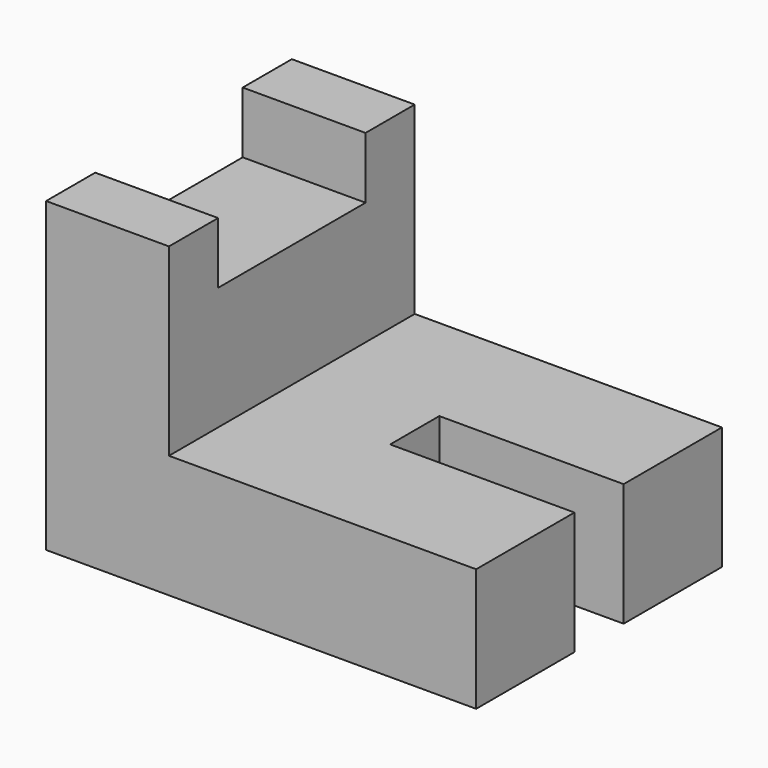
from build123d import *

# Parameters (mm, degrees)
F1_DEPTH = 2.54
F3_DEPTH = 2.54
F5_DEPTH = 2.54
F7_DEPTH = 2.54
F9_DEPTH = 2.54


with BuildPart() as f1:
    # F0 (on Front) → F1 (new body)
    with BuildSketch(Plane.XZ):
        Polygon((0, 12.7), (0, 0), (17.78, 0), (17.78, 5.08), (5.08, 5.08), (5.08, 12.7), align=None)
    extrude(amount=F1_DEPTH)



with BuildPart() as f3:
    # F2 (on face) → F3 (new body)
    with BuildSketch(Plane(origin=(0, 5.08, 0), x_dir=(-1, 0, 0), z_dir=(0, 1, 0))):
        Polygon((-17.78, 0), (0, 0), (0, 10.16), (-5.08, 10.16), (-5.08, 5.08), (-17.78, 5.08), align=None)
    extrude(amount=F3_DEPTH)

    # F4 (on face) → F5 (join)
    with BuildSketch(Plane(origin=(0, 2.54, 0), x_dir=(-1, 0, 0), z_dir=(0, 1, 0))):
        Polygon((0, 0), (0, 10.16), (-5.08, 10.16), (-5.08, 5.08), (-10.16, 5.08), (-10.16, 0), align=None)
    extrude(amount=F5_DEPTH)


with BuildPart() as f1_1:
    add(f1.part)

    add(f3.part)  # F7 merges F3
    # F6 (on face) → F7 (join)
    with BuildSketch(Plane(origin=(0, 0, 0), x_dir=(-1, 0, 0), z_dir=(0, 1, 0))):
        Polygon((-17.78, 0), (0, 0), (0, 10.16), (-5.08, 10.16), (-5.08, 5.08), (-17.78, 5.08), align=None)
    extrude(amount=F7_DEPTH)

    # F8 (on face) → F9 (join)
    with BuildSketch(Plane(origin=(0, 7.62, 0), x_dir=(-1, 0, 0), z_dir=(0, 1, 0))):
        Polygon((-17.78, 0), (0, 0), (0, 12.7), (-5.08, 12.7), (-5.08, 5.08), (-17.78, 5.08), align=None)
    extrude(amount=F9_DEPTH)


solid = f1_1.part
